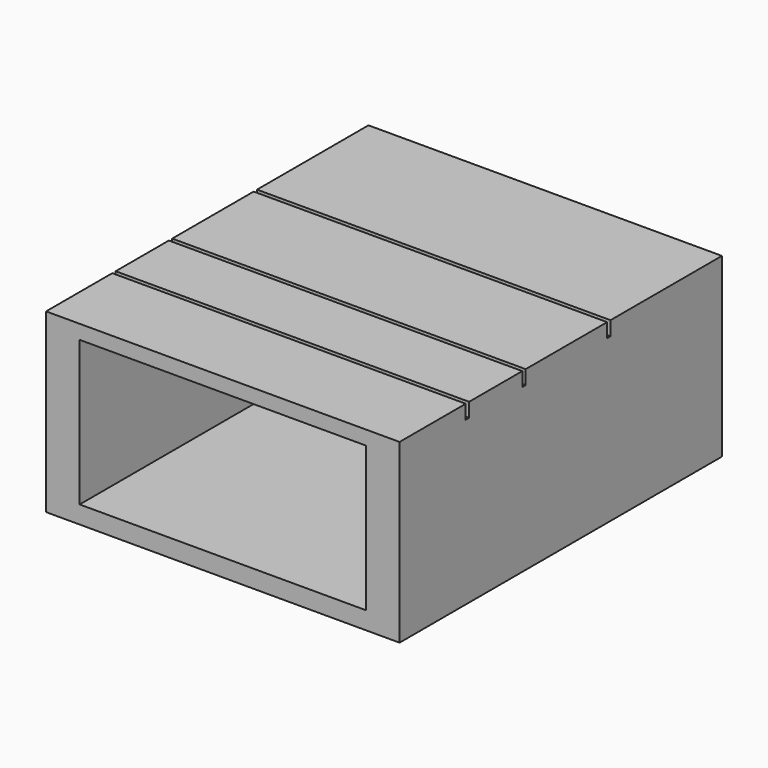
from build123d import *

# Parameters (mm, degrees)
F2_DEPTH = 50
F3_W     = 40.5
F3_H     = 20.5
F4_DEPTH = 57


with BuildPart() as f2:
    # F1 (on Right) → F2 (new body)
    with BuildSketch(Plane.YZ):
        Polygon((-33.374914, 31.830687), (-33.374914, 33.830687), (-45.074914, 33.830687), (-45.074914, 8.830687), (11.925086, 8.830687), (11.925086, 33.830687), (-7.774914, 33.830687), (-7.774914, 31.830687), (-8.374914, 31.830687), (-8.374914, 33.830687), (-22.774914, 33.830687), (-22.774914, 31.830687), (-23.374914, 31.830687), (-23.374914, 33.830687), (-32.774914, 33.830687), (-32.774914, 31.830687), align=None)
    extrude(amount=-F2_DEPTH)

    # F3 (on face) → F4 (cut, through all)
    with BuildSketch(Plane.XZ.offset(45.074914)):
        with Locations((-25, 21.580687)):
            Rectangle(F3_W, F3_H)
    extrude(amount=-F4_DEPTH, mode=Mode.SUBTRACT)


solid = f2.part
